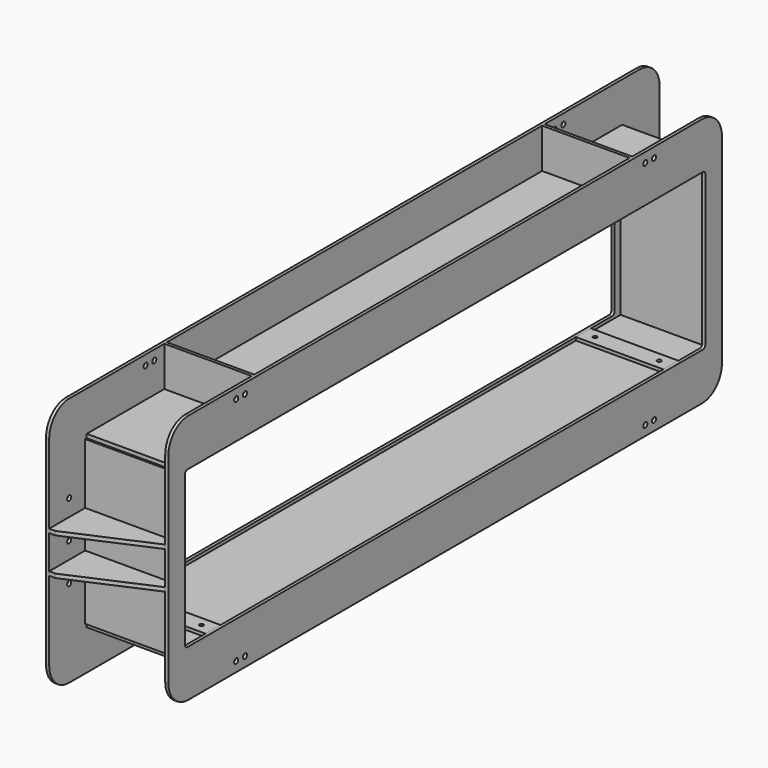
from build123d import *

# Parameters (mm, degrees)
F0_R      = 10.31875
F1_DEPTH  = 12.7
F3_DEPTH  = 355.6
F2_W      = 76.2
F2_H      = 12.7
F4_DEPTH  = 355.6
F5_R      = 8.001
F6_DEPTH  = 152.4
F7_W      = 182.499
F7_H      = 16.002
F8_DEPTH  = 355.6
F9_R      = 10.31875
F10_DEPTH = 12.7
F12_DEPTH = 592.202
F15_R     = 8.001
F16_DEPTH = 25.4
F17_R     = 8.001
F18_DEPTH = 25.4
F19_W     = 355.6
F19_H     = 12.7
F20_DEPTH = 162.052


with BuildPart() as f1:
    # F0 (on Right) → F1 (new body)
    with BuildSketch(Plane.YZ):
        with BuildLine():
            Line((1447.8, 508), (-1447.8, 508))
            ThreePointArc((-1447.8, 508), (-1519.6420489686, 478.2420489686), (-1549.4, 406.4))
            Line((-1549.4, 406.4), (-1549.4, -406.4))
            ThreePointArc((-1549.4, -406.4), (-1519.6420489686, -478.2420489686), (-1447.8, -508))
            Line((-1447.8, -508), (1447.8, -508))
            ThreePointArc((1447.8, -508), (1519.6420489686, -478.2420489686), (1549.4, -406.4))
            Line((1549.4, -406.4), (1549.4, 406.4))
            ThreePointArc((1549.4, 406.4), (1519.6420489686, 478.2420489686), (1447.8, 508))
        make_face()
        with Locations((-1060.45, -468.3125)):
            Circle(F0_R, mode=Mode.SUBTRACT)
        with Locations((-1016, -468.3125)):
            Circle(F0_R, mode=Mode.SUBTRACT)
        with Locations((-1447.8, -152.4)):
            Circle(F0_R, mode=Mode.SUBTRACT)
        with Locations((1016, -468.3125)):
            Circle(F0_R, mode=Mode.SUBTRACT)
        with Locations((1060.45, -468.3125)):
            Circle(F0_R, mode=Mode.SUBTRACT)
        with Locations((1447.8, -152.4)):
            Circle(F0_R, mode=Mode.SUBTRACT)
        with Locations((-1447.8, 0)):
            Circle(F0_R, mode=Mode.SUBTRACT)
        with Locations((-1447.8, 152.4)):
            Circle(F0_R, mode=Mode.SUBTRACT)
        with Locations((-1060.45, 468.3125)):
            Circle(F0_R, mode=Mode.SUBTRACT)
        with Locations((-1016, 468.3125)):
            Circle(F0_R, mode=Mode.SUBTRACT)
        with BuildLine():
            ThreePointArc((-1320.8, 304.8), (-1317.0802561211, 313.7802561211), (-1308.1, 317.5))
            Line((-1308.1, 317.5), (1308.1, 317.5))
            ThreePointArc((1308.1, 317.5), (1317.0802561211, 313.7802561211), (1320.8, 304.8))
            Line((1320.8, 304.8), (1320.8, -304.8))
            ThreePointArc((1320.8, -304.8), (1317.0802561211, -313.7802561211), (1308.1, -317.5))
            Line((1308.1, -317.5), (-1308.1, -317.5))
            ThreePointArc((-1308.1, -317.5), (-1317.0802561211, -313.7802561211), (-1320.8, -304.8))
            Line((-1320.8, -304.8), (-1320.8, 304.8))
        make_face(mode=Mode.SUBTRACT)
        with Locations((1447.8, 0)):
            Circle(F0_R, mode=Mode.SUBTRACT)
        with Locations((1447.8, 152.4)):
            Circle(F0_R, mode=Mode.SUBTRACT)
        with Locations((1016, 468.3125)):
            Circle(F0_R, mode=Mode.SUBTRACT)
        with Locations((1060.45, 468.3125)):
            Circle(F0_R, mode=Mode.SUBTRACT)
    extrude(amount=F1_DEPTH)

    # F15 (on face) → F16 (cut)
    with BuildSketch(Plane.XY.offset(-317.5)):
        with Locations((320.675, 1162.05)):
            Circle(F15_R)
        with Locations((60.325, 1162.05)):
            Circle(F15_R)
    extrude(amount=-F16_DEPTH, mode=Mode.SUBTRACT)

    # F17 (on face) → F18 (cut)
    with BuildSketch(Plane.XY.offset(-317.5)):
        with Locations((320.675, -1162.05)):
            Circle(F17_R)
        with Locations((60.325, -1162.05)):
            Circle(F17_R)
    extrude(amount=-F18_DEPTH, mode=Mode.SUBTRACT)


with BuildPart() as f3:
    # F2 (on face) → F3 (new body)
    with BuildSketch(Plane.YZ.offset(12.7)):
        Polygon((-1123.95, -330.2), (-1200.15, -330.2), (-1350.899, -330.2), (-1358.9, -330.2), (-1358.9, -345.948), (0, -345.948), (0, -330.2), align=None)
        Polygon((-1358.9, -330.2), (-1350.899, -330.2), (-1350.899, 0), (-1366.901, 0), (-1366.901, -330.2), align=None)
        Polygon((1123.95, -330.2), (0, -330.2), (0, -345.948), (1358.9, -345.948), (1358.9, -330.2), (1350.899, -330.2), (1200.15, -330.2), align=None)
        Polygon((-1366.901, 0), (-1350.899, 0), (-1350.899, 330.2), (-1358.9, 330.2), (-1366.901, 330.2), align=None)
        Polygon((-1358.9, 330.2), (-1350.899, 330.2), (0, 330.2), (1350.899, 330.2), (1358.9, 330.2), (1358.9, 345.948), (0, 345.948), (-1358.9, 345.948), align=None)
        Polygon((1350.899, -330.2), (1358.9, -330.2), (1366.901, -330.2), (1366.901, 0), (1350.899, 0), align=None)
        Polygon((1358.9, 330.2), (1350.899, 330.2), (1350.899, 0), (1366.901, 0), (1366.901, 330.2), align=None)
    extrude(amount=F3_DEPTH)


with BuildPart() as f4:
    # F2 (on face) → F4 (new body)
    with BuildSketch(Plane.YZ.offset(12.7)):
        with Locations((-1162.05, -323.85)):
            Rectangle(F2_W, F2_H)
    extrude(amount=F4_DEPTH)


with BuildPart() as f4b:
    # F2 (on face) → F4, piece 2 (new body)
    with BuildSketch(Plane.YZ.offset(12.7)):
        with Locations((1162.05, -323.85)):
            Rectangle(F2_W, F2_H)
    extrude(amount=F4_DEPTH)


with BuildPart() as f6_tool:
    # F5 (on face) → F6 (new body)
    with BuildSketch(Plane(origin=(0, 0, -345.948), x_dir=(1, 0, 0), z_dir=(0, 0, -1))):
        with Locations((320.675, 1162.05)):
            Circle(F5_R)
        with Locations((60.325, 1162.05)):
            Circle(F5_R)
        with Locations((60.325, -1162.05)):
            Circle(F5_R)
        with Locations((320.675, -1162.05)):
            Circle(F5_R)
    extrude(amount=-F6_DEPTH)


with BuildPart() as f3_1:
    add(f3.part)

    # F6: cut by f6_tool
    add(f6_tool.part, mode=Mode.SUBTRACT)


with BuildPart() as f4_1:
    add(f4.part)

    # F6: cut by f6_tool
    add(f6_tool.part, mode=Mode.SUBTRACT)


with BuildPart() as f4b_1:
    add(f4b.part)

    # F6: cut by f6_tool
    add(f6_tool.part, mode=Mode.SUBTRACT)


with BuildPart() as f8:
    # F7 (on face) → F8 (new body)
    with BuildSketch(Plane.YZ.offset(12.7)):
        with Locations((-1458.1505, 76.2)):
            Rectangle(F7_W, F7_H)
    extrude(amount=F8_DEPTH)

    # F11 (on face) → F12 (cut, through all)
    with BuildSketch(Plane.XY.offset(84.201)):
        Polygon((38.1, -1549.4), (368.3, -1549.4), (368.3, -1405.001), align=None)
    extrude(amount=-F12_DEPTH, mode=Mode.SUBTRACT)


with BuildPart() as f10:
    # F9 (on face) → F10 (new body)
    with BuildSketch(Plane.YZ.offset(368.3)):
        with BuildLine():
            ThreePointArc((1405.001, 406.4), (1375.2430489686, 478.2420489686), (1303.401, 508))
            Line((1303.401, 508), (-1303.401, 508))
            ThreePointArc((-1303.401, 508), (-1375.2430489686, 478.2420489686), (-1405.001, 406.4))
            Line((-1405.001, 406.4), (-1405.001, -406.4))
            ThreePointArc((-1405.001, -406.4), (-1375.2430489686, -478.2420489686), (-1303.401, -508))
            Line((-1303.401, -508), (1303.401, -508))
            ThreePointArc((1303.401, -508), (1375.2430489686, -478.2420489686), (1405.001, -406.4))
            Line((1405.001, -406.4), (1405.001, 406.4))
        make_face()
        with Locations((-1060.45, -468.3125)):
            Circle(F9_R, mode=Mode.SUBTRACT)
        with Locations((-1016, -468.3125)):
            Circle(F9_R, mode=Mode.SUBTRACT)
        with Locations((1016, -468.3125)):
            Circle(F9_R, mode=Mode.SUBTRACT)
        with Locations((1060.45, -468.3125)):
            Circle(F9_R, mode=Mode.SUBTRACT)
        with Locations((-1060.45, 468.3125)):
            Circle(F9_R, mode=Mode.SUBTRACT)
        with Locations((-1016, 468.3125)):
            Circle(F9_R, mode=Mode.SUBTRACT)
        with BuildLine():
            ThreePointArc((-1320.8, 304.8), (-1317.0802561211, 313.7802561211), (-1308.1, 317.5))
            Line((-1308.1, 317.5), (1308.1, 317.5))
            ThreePointArc((1308.1, 317.5), (1317.0802561211, 313.7802561211), (1320.8, 304.8))
            Line((1320.8, 304.8), (1320.8, -304.8))
            ThreePointArc((1320.8, -304.8), (1317.0802561211, -313.7802561211), (1308.1, -317.5))
            Line((1308.1, -317.5), (1200.15, -317.5))
            Line((1200.15, -317.5), (1123.95, -317.5))
            Line((1123.95, -317.5), (-1123.95, -317.5))
            Line((-1123.95, -317.5), (-1200.15, -317.5))
            Line((-1200.15, -317.5), (-1308.1, -317.5))
            ThreePointArc((-1308.1, -317.5), (-1317.0802561211, -313.7802561211), (-1320.8, -304.8))
            Line((-1320.8, -304.8), (-1320.8, 304.8))
        make_face(mode=Mode.SUBTRACT)
        with Locations((1016, 468.3125)):
            Circle(F9_R, mode=Mode.SUBTRACT)
        with Locations((1060.45, 468.3125)):
            Circle(F9_R, mode=Mode.SUBTRACT)
    extrude(amount=F10_DEPTH)


with BuildPart() as f13_1:
    # F13: instance of F8
    add(f8.part.mirror(Plane.XY))


with BuildPart() as f14_1:
    # F14: instance of F8
    add(f8.part.mirror(Plane.XZ))


with BuildPart() as f14_2:
    # F14: instance of F13_1
    add(f13_1.part.mirror(Plane.XZ))


with BuildPart() as f20:
    # F19 (on face) → F20 (new body, through all)
    with BuildSketch(Plane.XY.offset(345.948)):
        with Locations((190.5, -958.85)):
            Rectangle(F19_W, F19_H)
    extrude(amount=F20_DEPTH)


with BuildPart() as f21_1:
    # F21: instance of F20
    add(f20.part.mirror(Plane.XZ))


with BuildPart() as f22_1:
    # F22: instance of F20
    add(f20.part.mirror(Plane.XY))


with BuildPart() as f22_2:
    # F22: instance of F21_1
    add(f21_1.part.mirror(Plane.XY))


solid = Compound([f1.part, f3_1.part, f4_1.part, f4b_1.part, f8.part, f10.part, f13_1.part, f14_1.part, f14_2.part, f20.part, f21_1.part, f22_1.part, f22_2.part])
